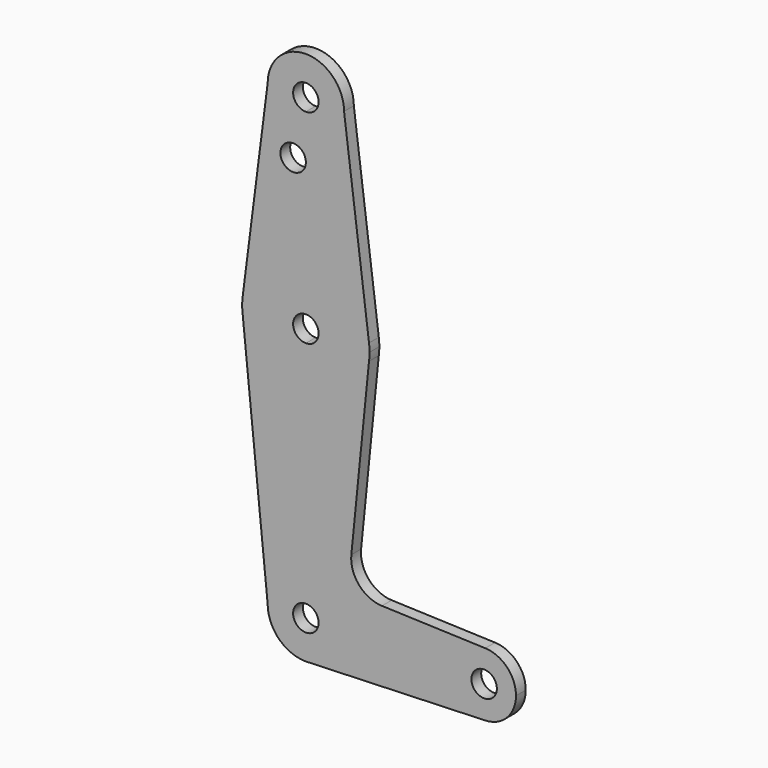
from build123d import *

# Parameters (mm, degrees)
F0_R     = 3.175
F1_DEPTH = 3.048


with BuildPart() as f1:
    # F0 (on Front) → F1 (new body)
    with BuildSketch(Plane.XZ):
        with BuildLine():
            ThreePointArc((-15.7474569047, 65.5082893304), (-15.875, 63.5), (-15.7474569047, 61.4917106696))
            Line((-15.7474569047, 61.4917106696), (-15.7474569047, 65.5082893304))
        make_face()
        with BuildLine():
            ThreePointArc((-9.525, 0), (-6.7351920908, 6.7351920908), (0, 9.525))
            Line((0, 9.525), (0, 47.625))
            ThreePointArc((0, 47.625), (-10.4912828548, 51.5857812233), (-15.7474569047, 61.4917106696))
            Line((-15.7474569047, 61.4917106696), (-9.525, 0))
        make_face()
        with BuildLine():
            Line((0, 47.625), (0, 9.525))
            ThreePointArc((0, 9.525), (6.7351920908, 6.7351920908), (9.525, 0))
            Line((9.525, 0), (36.5125, 0))
            ThreePointArc((36.5125, 0), (38.9380895153, 5.7116327839), (44.7324052746, 7.9324746146))
            Line((44.7324052746, 7.9324746146), (18.9666479658, 8.849765387))
            ThreePointArc((18.9666479658, 8.849765387), (13.2597593647, 11.567253107), (11.3390844329, 17.5892398904))
            Line((11.3390844329, 17.5892398904), (15.7474569047, 61.4917106696))
            ThreePointArc((15.7474569047, 61.4917106696), (10.4912828548, 51.5857812233), (0, 47.625))
        make_face()
        with BuildLine():
            Line((0, 60.325), (0, 47.625))
            ThreePointArc((0, 47.625), (10.4912828548, 51.5857812233), (15.7474569047, 61.4917106696))
            ThreePointArc((15.7474569047, 61.4917106696), (15.8430821396, 62.4938323604), (15.875, 63.5))
            ThreePointArc((15.875, 63.5), (15.8430821396, 64.5061676396), (15.7474569047, 65.5082893304))
            ThreePointArc((15.7474569047, 65.5082893304), (10.4912828548, 75.4142187767), (0, 79.375))
            Line((0, 79.375), (0, 66.675))
            ThreePointArc((0, 66.675), (2.2450640303, 65.7450640303), (3.175, 63.5))
            ThreePointArc((3.175, 63.5), (2.2450640303, 61.2549359697), (0, 60.325))
        make_face()
        with BuildLine():
            ThreePointArc((-15.7474569047, 61.4917106696), (-10.4912828548, 51.5857812233), (0, 47.625))
            Line((0, 47.625), (0, 60.325))
            ThreePointArc((0, 60.325), (-3.175, 63.5), (0, 66.675))
            Line((0, 66.675), (0, 79.375))
            ThreePointArc((0, 79.375), (-10.4912828548, 75.4142187767), (-15.7474569047, 65.5082893304))
            Line((-15.7474569047, 65.5082893304), (-15.7474569047, 61.4917106696))
        make_face()
        with BuildLine():
            Line((-9.525, 114.3), (-15.7474569047, 65.5082893304))
            ThreePointArc((-15.7474569047, 65.5082893304), (-10.4912828548, 75.4142187767), (0, 79.375))
            Line((0, 79.375), (0, 100.0252))
            Line((0, 100.0252), (0, 104.775))
            ThreePointArc((0, 104.775), (-6.7351920908, 107.5648079092), (-9.525, 114.3))
        make_face()
        with Locations((-3.175, 100.0252)):
            Circle(F0_R, mode=Mode.SUBTRACT)
        with BuildLine():
            Line((0, 100.0252), (0, 79.375))
            ThreePointArc((0, 79.375), (10.4912828548, 75.4142187767), (15.7474569047, 65.5082893304))
            Line((15.7474569047, 65.5082893304), (9.525, 114.3))
            ThreePointArc((9.525, 114.3), (6.7351920908, 107.5648079092), (0, 104.775))
            Line((0, 104.775), (0, 100.0252))
        make_face()
        with BuildLine():
            ThreePointArc((3.175, 0), (-2.2450640303, -2.2450640303), (0, 3.175))
            Line((0, 3.175), (0, 9.525))
            ThreePointArc((0, 9.525), (-6.7351920908, 6.7351920908), (-9.525, 0))
            ThreePointArc((-9.525, 0), (-6.7351920908, -6.7351920908), (0, -9.525))
            Line((0, -9.525), (0.6773435479, -9.500885786))
            ThreePointArc((0.6773435479, -9.500885786), (6.9705567315, -6.4912990883), (9.525, 0))
            Line((9.525, 0), (3.175, 0))
        make_face()
        with BuildLine():
            Line((36.5125, 0), (9.525, 0))
            ThreePointArc((9.525, 0), (6.9705567315, -6.4912990883), (0.6773435479, -9.500885786))
            Line((0.6773435479, -9.500885786), (44.7324052746, -7.9324746146))
            ThreePointArc((44.7324052746, -7.9324746146), (38.9380895153, -5.7116327839), (36.5125, 0))
        make_face()
        with BuildLine():
            ThreePointArc((44.7324052746, 7.9324746146), (38.9380895153, 5.7116327839), (36.5125, 0))
            ThreePointArc((36.5125, 0), (38.9380895153, -5.7116327839), (44.7324052746, -7.9324746146))
            ThreePointArc((44.7324052746, -7.9324746146), (50.1616327839, -5.5119104847), (52.3875, 0))
            ThreePointArc((52.3875, 0), (50.1616327839, 5.5119104847), (44.7324052746, 7.9324746146))
        make_face()
        with BuildLine():
            ThreePointArc((47.625, 0), (44.45, -3.175), (41.275, 0))
            ThreePointArc((41.275, 0), (44.45, 3.175), (47.625, 0))
        make_face(mode=Mode.SUBTRACT)
        with BuildLine():
            ThreePointArc((44.7324052746, 7.9324746146), (38.9380895153, 5.7116327839), (36.5125, 0))
            ThreePointArc((36.5125, 0), (38.9380895153, -5.7116327839), (44.7324052746, -7.9324746146))
            ThreePointArc((44.7324052746, -7.9324746146), (50.1616327839, -5.5119104847), (52.3875, 0))
            ThreePointArc((52.3875, 0), (50.1616327839, 5.5119104847), (44.7324052746, 7.9324746146))
        make_face()
        with BuildLine():
            ThreePointArc((47.625, 0), (44.45, -3.175), (41.275, 0))
            ThreePointArc((41.275, 0), (44.45, 3.175), (47.625, 0))
        make_face(mode=Mode.SUBTRACT)
        with BuildLine():
            ThreePointArc((9.525, 114.3), (0, 123.825), (-9.525, 114.3))
            ThreePointArc((-9.525, 114.3), (-6.7351920908, 107.5648079092), (0, 104.775))
            ThreePointArc((0, 104.775), (6.7351920908, 107.5648079092), (9.525, 114.3))
        make_face()
        with BuildLine():
            ThreePointArc((3.175, 114.3), (2.2450640303, 112.0549359697), (0, 111.125))
            ThreePointArc((0, 111.125), (-2.2450640303, 116.5450640303), (3.175, 114.3))
        make_face(mode=Mode.SUBTRACT)
        with BuildLine():
            Line((0, 9.525), (0, 3.175))
            ThreePointArc((0, 3.175), (2.2450640303, 2.2450640303), (3.175, 0))
            Line((3.175, 0), (9.525, 0))
            ThreePointArc((9.525, 0), (6.7351920908, 6.7351920908), (0, 9.525))
        make_face()
        with BuildLine():
            Line((0, 9.525), (0, 3.175))
            ThreePointArc((0, 3.175), (2.2450640303, 2.2450640303), (3.175, 0))
            Line((3.175, 0), (9.525, 0))
            ThreePointArc((9.525, 0), (6.7351920908, 6.7351920908), (0, 9.525))
        make_face()
    extrude(amount=F1_DEPTH)


solid = f1.part
